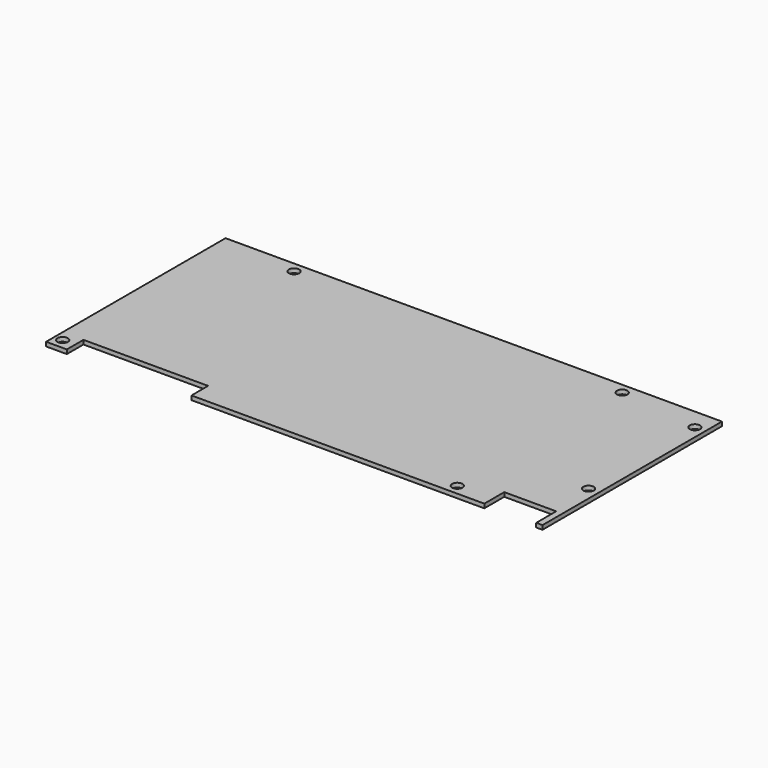
from build123d import *

# Parameters (mm, degrees)
F0_R     = 2.5
F1_DEPTH = 2


with BuildPart() as f1:
    # F0 (on Top) → F1 (new body)
    with BuildSketch(Plane.XY):
        Polygon((239, 0), (0, 0), (0, -108), (10, -108), (10, -98), (70, -98), (70, -108), (211, -108), (211, -96), (236, -96), (236, -108), (239, -108), align=None)
        with Locations((4, -103)):
            Circle(F0_R, mode=Mode.SUBTRACT)
        with Locations((194, -103)):
            Circle(F0_R, mode=Mode.SUBTRACT)
        with Locations((234, -74)):
            Circle(F0_R, mode=Mode.SUBTRACT)
        with Locations((37, -5)):
            Circle(F0_R, mode=Mode.SUBTRACT)
        with Locations((195, -5)):
            Circle(F0_R, mode=Mode.SUBTRACT)
        with Locations((234, -10)):
            Circle(F0_R, mode=Mode.SUBTRACT)
    extrude(amount=F1_DEPTH)


solid = f1.part
